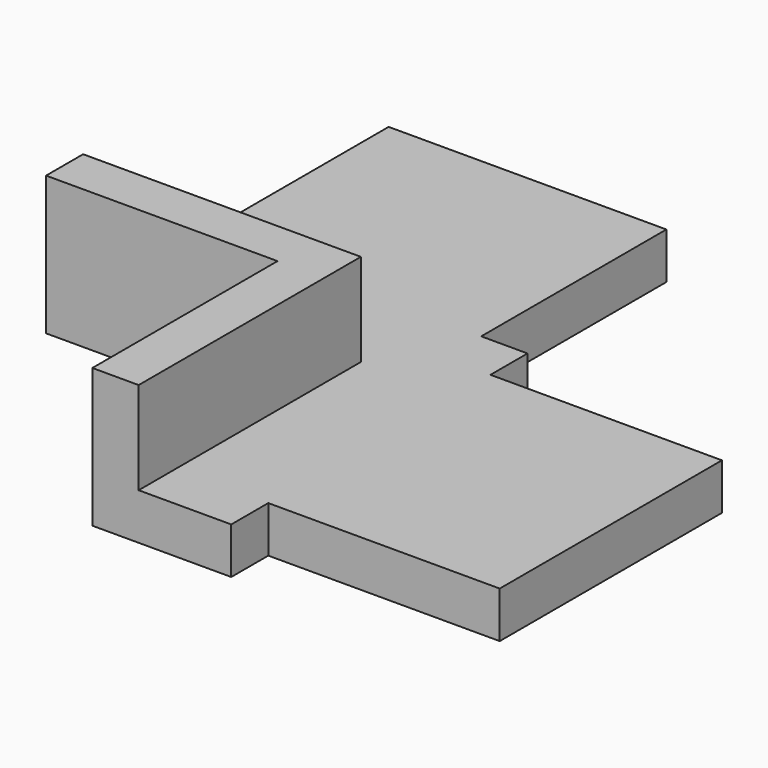
from build123d import *

# Parameters (mm, degrees)
F1_DEPTH = 20
F3_DEPTH = 40


with BuildPart() as f1:
    # F0 (on Top) → F1 (new body)
    with BuildSketch(Plane.XY):
        Polygon((-100, 0), (0, 0), (0, -100), (60, -100), (60, -80), (160, -80), (160, 40), (60, 40), (60, 60), (40, 60), (40, 160), (-80, 160), (-80, 60), (-100, 60), align=None)
    extrude(amount=F1_DEPTH)

    # F2 (on face) → F3 (join)
    with BuildSketch(Plane.XY.offset(20)):
        Polygon((-100, 20), (-100, 0), (0, 0), (0, -100), (20, -100), (20, 20), align=None)
    extrude(amount=F3_DEPTH)


solid = f1.part
